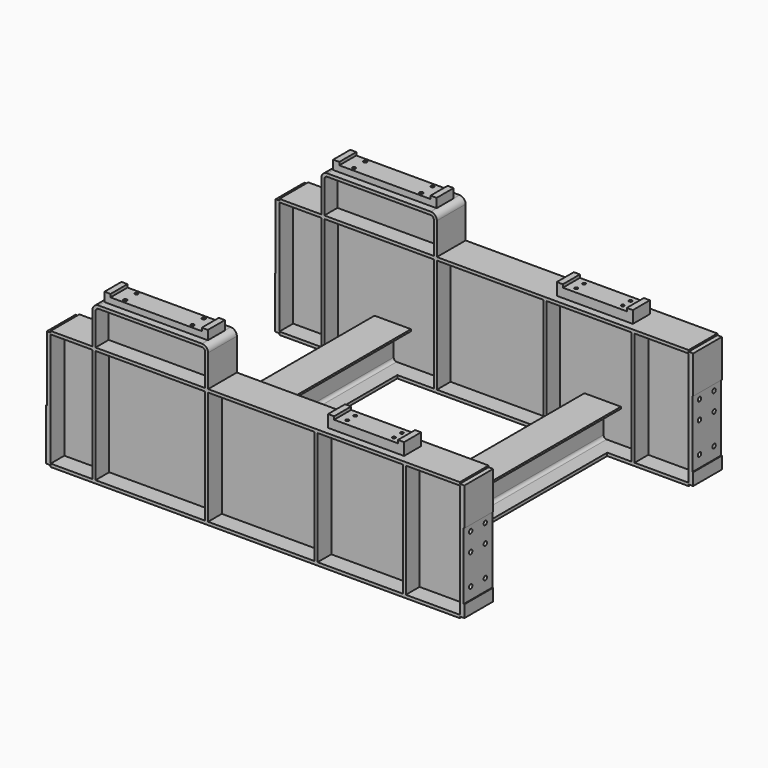
from build123d import *

# Parameters (mm, degrees)
F0_W      = 3492.5
F0_H      = 1000.252
F1_DEPTH  = 7.112
F3_DEPTH  = 149.987
F4_W      = 6.35
F4_H      = 558.8
F5_DEPTH  = 152.4
F6_W      = 69.6651035309
F6_H      = 32.1860781174
F6_W_2    = 61.0528284073
F6_H_2    = 46.4129915695
F6_W_3    = 67.1003156662
F6_H_3    = 41.8257090867
F6_W_4    = 72.7439218521
F6_H_4    = 49.2695767105
F7_DEPTH  = 299.975
F9_DEPTH  = 12.7
F10_DEPTH = 149.987
F8_W      = 25.4
F8_H      = 949.452
F11_DEPTH = 149.987
F13_W     = 635
F13_H     = 177.8
F14_DEPTH = 76.2
F15_W     = 50.8
F15_H     = 177.8
F16_DEPTH = 25.4
F18_D     = 26.19502
F18_DEPTH = 101.6
F18_TIP   = 7.8697779663
F20_D     = 35.052
F20_DEPTH = 101.6
F20_TIP   = 10.5306832091
F21_W     = 863.6
F21_H     = 177.8
F22_DEPTH = 76.2
F23_W     = 762
F23_H     = 177.8
F24_DEPTH = 25.4
F26_D     = 28.575
F26_DEPTH = 101.6
F26_TIP   = 8.5847960944
F29_DEPTH = 1186.688


with BuildPart() as f1:
    # F0 (on Front) → F1 (new body, symmetric)
    with BuildSketch(Plane.XZ):
        with Locations((0, 500.126)):
            Rectangle(F0_W, F0_H)
    extrude(amount=F1_DEPTH, both=True)

    # F2 (on Front) → F3 (join, symmetric)
    with BuildSketch(Plane.XZ):
        Polygon((-1708.15, 12.7), (-1708.15, 0), (1708.15, 0), (1708.15, 12.7), (1708.15, 25.4), (-1708.15, 25.4), align=None)
        Polygon((-1746.25, 12.7), (-1708.15, 12.7), (-1708.15, 25.4), (-1708.15, 974.852), (-1708.15, 987.552), (-1746.25, 987.552), align=None)
        Polygon((1708.15, 25.4), (1708.15, 12.7), (1746.25, 12.7), (1746.25, 987.552), (1708.15, 987.552), (1708.15, 974.852), align=None)
        Polygon((-1708.15, 987.552), (-1708.15, 974.852), (1708.15, 974.852), (1708.15, 987.552), (1708.15, 1000.252), (-1708.15, 1000.252), align=None)
    extrude(amount=F3_DEPTH, both=True)

    # F4 (on Front) → F5 (cut, symmetric)
    with BuildSketch(Plane.XZ):
        with Locations((-1743.075, 720.852)):
            Rectangle(F4_W, F4_H)
        Polygon((1766.3530111313, 441.452), (1746.25, 441.452), (1739.9, 441.452), (1739.9, 114.3), (1766.3530111313, 114.3), align=None)
        Polygon((1739.9, 441.452), (1746.25, 441.452), (1766.3530111313, 441.452), (1766.3530111313, 673.1), (1739.9, 673.1), align=None)
    extrude(amount=F5_DEPTH, both=True, mode=Mode.SUBTRACT)

    # F6 (on face) → F7 (cut, through all)
    with BuildSketch(Plane.XZ.offset(149.987)):
        with Locations((-1742.9825517654, 1003.6450390587)):
            Rectangle(F6_W, F6_H)
        with Locations((1738.6764142036, 1010.7584957848)):
            Rectangle(F6_W_2, F6_H_2)
        with Locations((1741.7001578331, -8.2128545433)):
            Rectangle(F6_W_3, F6_H_3)
        with Locations((-1744.5219609261, -11.9347883552)):
            Rectangle(F6_W_4, F6_H_4)
    extrude(amount=-F7_DEPTH, mode=Mode.SUBTRACT)

    # F8 (on Front) → F9 (join, symmetric)
    with BuildSketch(Plane.XZ):
        with BuildLine():
            Line((-1333.5, 1266.952), (-1333.5, 974.852))
            Line((-1333.5, 974.852), (-419.1, 974.852))
            Line((-419.1, 974.852), (-419.1, 1266.952))
            ThreePointArc((-419.1, 1266.952), (-426.5394877579, 1284.9125122421), (-444.5, 1292.352))
            Line((-444.5, 1292.352), (-1308.1, 1292.352))
            ThreePointArc((-1308.1, 1292.352), (-1326.0605122421, 1284.9125122421), (-1333.5, 1266.952))
        make_face()
    extrude(amount=F9_DEPTH, both=True)

    # F8 (on Front) → F10 (join, symmetric)
    with BuildSketch(Plane.XZ):
        with BuildLine():
            Line((-1358.9, 1266.952), (-1358.9, 974.852))
            Line((-1358.9, 974.852), (-1333.5, 974.852))
            Line((-1333.5, 974.852), (-1333.5, 1266.952))
            Line((-1333.5, 1266.952), (-1333.5, 1310.9460905122))
            ThreePointArc((-1333.5, 1310.9460905122), (-1352.0940905122, 1292.352), (-1358.9, 1266.952))
        make_face()
        with BuildLine():
            Line((-419.1, 1266.952), (-419.1, 974.852))
            Line((-419.1, 974.852), (-393.7, 974.852))
            Line((-393.7, 974.852), (-393.7, 1266.952))
            ThreePointArc((-393.7, 1266.952), (-408.5789755157, 1302.8730244843), (-444.5, 1317.752))
            Line((-444.5, 1317.752), (-1308.1, 1317.752))
            ThreePointArc((-1308.1, 1317.752), (-1321.2480074912, 1316.0210319755), (-1333.5, 1310.9460905122))
            Line((-1333.5, 1310.9460905122), (-1333.5, 1266.952))
            ThreePointArc((-1333.5, 1266.952), (-1326.0605122421, 1284.9125122421), (-1308.1, 1292.352))
            Line((-1308.1, 1292.352), (-444.5, 1292.352))
            ThreePointArc((-444.5, 1292.352), (-426.5394877579, 1284.9125122421), (-419.1, 1266.952))
        make_face()
    extrude(amount=F10_DEPTH, both=True)


with BuildPart() as f11:
    # F8 (on Front) → F11 (new body, symmetric)
    with BuildSketch(Plane.XZ):
        with Locations((-1346.2, 500.126)):
            Rectangle(F8_W, F8_H)
    extrude(amount=F11_DEPTH, both=True)


with BuildPart() as f11b:
    # F8 (on Front) → F11, piece 2 (new body, symmetric)
    with BuildSketch(Plane.XZ):
        with Locations((-406.4, 500.126)):
            Rectangle(F8_W, F8_H)
    extrude(amount=F11_DEPTH, both=True)


with BuildPart() as f11c:
    # F8 (on Front) → F11, piece 3 (new body, symmetric)
    with BuildSketch(Plane.XZ):
        with Locations((508, 500.126)):
            Rectangle(F8_W, F8_H)
    extrude(amount=F11_DEPTH, both=True)


with BuildPart() as f11d:
    # F8 (on Front) → F11, piece 4 (new body, symmetric)
    with BuildSketch(Plane.XZ):
        with Locations((1244.6, 500.126)):
            Rectangle(F8_W, F8_H)
    extrude(amount=F11_DEPTH, both=True)


with BuildPart() as f1_1:
    add(f1.part)

    # F12: union F11, F11b, F11c, F11d
    add(f11.part)
    add(f11b.part)
    add(f11c.part)
    add(f11d.part)

    # F13 (on face) → F14 (join)
    with BuildSketch(Plane.XY.offset(1000.252)):
        with Locations((876.3, 0)):
            Rectangle(F13_W, F13_H)
    extrude(amount=F14_DEPTH)

    # F15 (on face) → F16 (join)
    with BuildSketch(Plane.XY.offset(1076.452)):
        with Locations((1168.4, 0)):
            Rectangle(F15_W, F15_H)
        with Locations((584.2, 0)):
            Rectangle(F15_W, F15_H)
    extrude(amount=F16_DEPTH)

    # F18
    with Locations(Plane.XY.offset(1076.452)):
        with Locations((681.99, 41.148), (1070.864, 41.148), (1070.864, -41.148), (681.99, -41.148)):
            Hole(F18_D / 2, depth=F18_DEPTH)
            with Locations((0, 0, -(F18_DEPTH + F18_TIP / 2))):  # 118° drill point
                Cone(0, F18_D / 2, F18_TIP, mode=Mode.SUBTRACT)

    # F20
    with Locations(Plane.YZ.offset(1739.9)):
        with Locations((-76.2, 619.252), (76.2, 619.252), (76.2, 466.852), (-76.2, 466.852), (76.2, 212.852), (-76.2, 212.852)):
            Hole(F20_D / 2, depth=F20_DEPTH)
            with Locations((0, 0, -(F20_DEPTH + F20_TIP / 2))):  # 118° drill point
                Cone(0, F20_D / 2, F20_TIP, mode=Mode.SUBTRACT)

    # F21 (on face) → F22 (join)
    with BuildSketch(Plane.XY.offset(1317.752)):
        with Locations((-876.3, 0)):
            Rectangle(F21_W, F21_H)
    extrude(amount=F22_DEPTH)

    # F23 (on face) → F24 (cut)
    with BuildSketch(Plane.XY.offset(1393.952)):
        with Locations((-876.3, 0)):
            Rectangle(F23_W, F23_H)
    extrude(amount=-F24_DEPTH, mode=Mode.SUBTRACT)

    # F26
    with Locations(Plane.XY.offset(1368.552)):
        with Locations((-1158.748, 58.674), (-1158.748, -58.674), (-596.9, 58.674), (-596.9, -58.674)):
            Hole(F26_D / 2, depth=F26_DEPTH)
            with Locations((0, 0, -(F26_DEPTH + F26_TIP / 2))):  # 118° drill point
                Cone(0, F26_D / 2, F26_TIP, mode=Mode.SUBTRACT)

    # F30: F29 across plane


with BuildPart() as f29:
    # F27 (on face) → F29 (new body, through all)
    with BuildSketch(Plane(origin=(0, 7.112, 0), x_dir=(-1, 0, 0), z_dir=(0, 1, 0))):
        with BuildLine():
            ThreePointArc((-883.92, 50.8), (-891.3594877579, 32.8394877579), (-909.32, 25.4))
            Line((-909.32, 25.4), (-843.28, 25.4))
            ThreePointArc((-843.28, 25.4), (-861.2405122421, 32.8394877579), (-868.68, 50.8))
            Line((-868.68, 50.8), (-868.68, 264.033))
            ThreePointArc((-868.68, 264.033), (-861.2405122421, 281.9935122421), (-843.28, 289.433))
            Line((-843.28, 289.433), (-723.9, 289.433))
            Line((-723.9, 289.433), (-723.9, 304.8))
            Line((-723.9, 304.8), (-876.3, 304.8))
            Line((-876.3, 304.8), (-1028.7, 304.8))
            Line((-1028.7, 304.8), (-1028.7, 289.433))
            Line((-1028.7, 289.433), (-909.32, 289.433))
            ThreePointArc((-909.32, 289.433), (-891.3594877579, 281.9935122421), (-883.92, 264.033))
            Line((-883.92, 264.033), (-883.92, 50.8))
        make_face()
        Polygon((-1028.7, 0), (-876.3, 0), (-723.9, 0), (-723.9, 25.4), (-736.8296918678, 25.4), (-843.28, 25.4), (-909.32, 25.4), (-1015.7703081322, 25.4), (-1028.7, 25.4), align=None)
    extrude(amount=F29_DEPTH)


with BuildPart() as f1_2:
    add(f1_1.part)
    add(f29.part.mirror(Plane.YZ))



with BuildPart() as f1_3:
    add(f1_2.part)

    add(f29.part)  # F31 merges F29
    # F31: F1, F29 across plane
    add(f1_2.part.mirror(Plane.XZ.offset(-1193.8)))
    add(f29.part.mirror(Plane.XZ.offset(-1193.8)))


solid = f1_3.part
